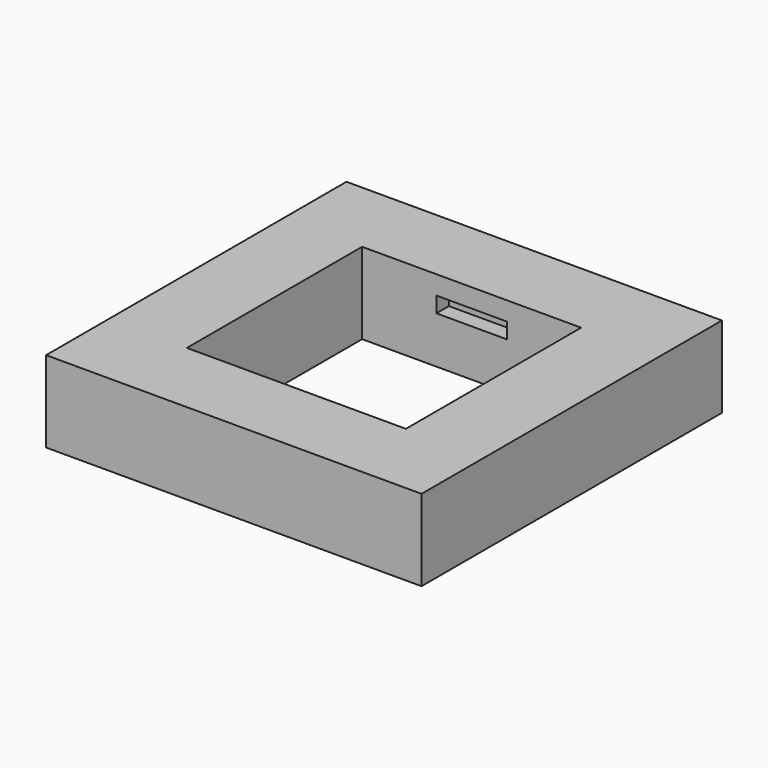
from build123d import *

# Parameters (mm, degrees)
BOX004_W     = 4.5
BOX004_H     = 1
BOX004_DEPTH = 1
BOX003_W     = 4.5
BOX003_H     = 1
BOX003_DEPTH = 1
BOX002_W     = 14
BOX002_H     = 14
BOX002_DEPTH = 5.2
BOX001_W     = 24
BOX001_H     = 24
BOX001_DEPTH = 5.2


with BuildPart() as slot_top:
    # Box004 → Box004 (new body)
    with BuildSketch(Plane(origin=(9.75, 19, -2.2), x_dir=(1, 0, 0), z_dir=(0, 0, 1))):
        with Locations((2.25, 0.5)):
            Rectangle(BOX004_W, BOX004_H)
    extrude(amount=BOX004_DEPTH)


with BuildPart() as slot_bottom:
    # Box003 → Box003 (new body)
    with BuildSketch(Plane(origin=(9.75, 4, -2.2), x_dir=(1, 0, 0), z_dir=(0, 0, 1))):
        with Locations((2.25, 0.5)):
            Rectangle(BOX003_W, BOX003_H)
    extrude(amount=BOX003_DEPTH)


with BuildPart() as cutout:
    # Box002 → Box002 (new body)
    with BuildSketch(Plane(origin=(5, 5, 0), x_dir=(1, 0, 0), z_dir=(0, 0, 1))):
        with Locations((7, 7)):
            Rectangle(BOX002_W, BOX002_H)
    extrude(amount=BOX002_DEPTH)


with BuildPart() as cut003:
    # Box001 → Box001 (new body)
    with BuildSketch(Plane.XY):
        with Locations((12, 12)):
            Rectangle(BOX001_W, BOX001_H)
    extrude(amount=BOX001_DEPTH)

    # Cut001: cut CutOut
    add(cutout.part, mode=Mode.SUBTRACT)


with BuildPart() as cut003_1:
    # Cut001 placement: moved
    add(cut003.part.moved(Location((0, 0, -5.2))))

    # Cut002: cut slot_bottom
    add(slot_bottom.part, mode=Mode.SUBTRACT)

    # Cut003: cut slot_top
    add(slot_top.part, mode=Mode.SUBTRACT)


solid = cut003_1.part
